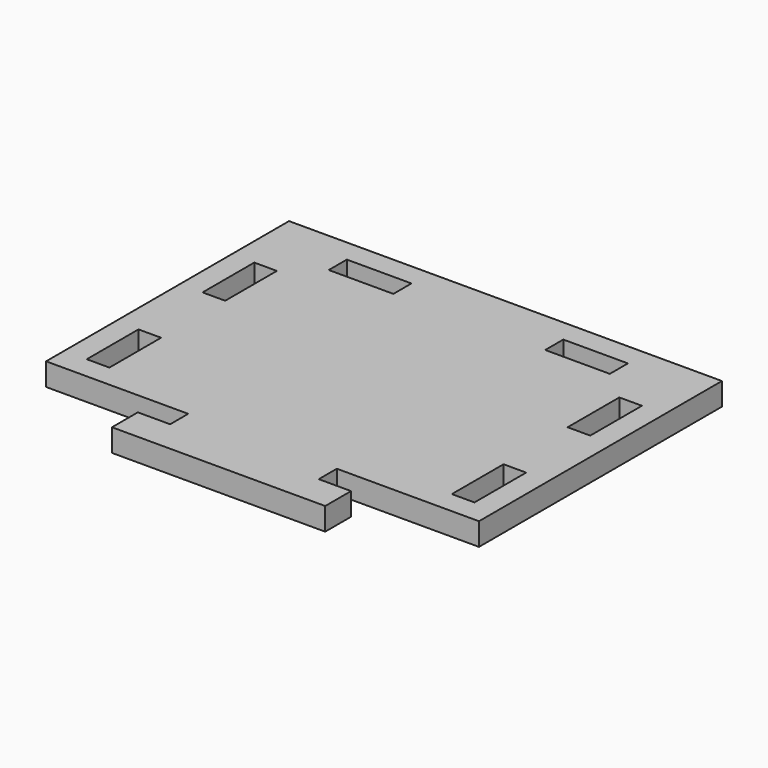
from build123d import *

# Parameters (mm, degrees)
F0_W     = 3.5
F0_H     = 10
F0_W_2   = 10
F0_H_2   = 3.5
F1_DEPTH = 3.5


with BuildPart() as f1:
    # F0 (on Top) → F1 (new body)
    with BuildSketch(Plane.XY):
        Polygon((0, 23.5), (-33.5, 23.5), (-33.5, -23.5), (-11.5, -23.5), (-11.5, -27), (-16.5, -27), (-16.5, -32), (16.5, -32), (16.5, -27), (11.5, -27), (11.5, -23.5), (33.5, -23.5), (33.5, 23.5), align=None)
        with Locations((-28.25, -15)):
            Rectangle(F0_W, F0_H, mode=Mode.SUBTRACT)
        with Locations((28.25, -15)):
            Rectangle(F0_W, F0_H, mode=Mode.SUBTRACT)
        with Locations((-28.25, 7.4)):
            Rectangle(F0_W, F0_H, mode=Mode.SUBTRACT)
        with Locations((-16.75, 18.25)):
            Rectangle(F0_W_2, F0_H_2, mode=Mode.SUBTRACT)
        with Locations((28.25, 7.4)):
            Rectangle(F0_W, F0_H, mode=Mode.SUBTRACT)
        with Locations((16.75, 18.25)):
            Rectangle(F0_W_2, F0_H_2, mode=Mode.SUBTRACT)
    extrude(amount=F1_DEPTH)


solid = f1.part
